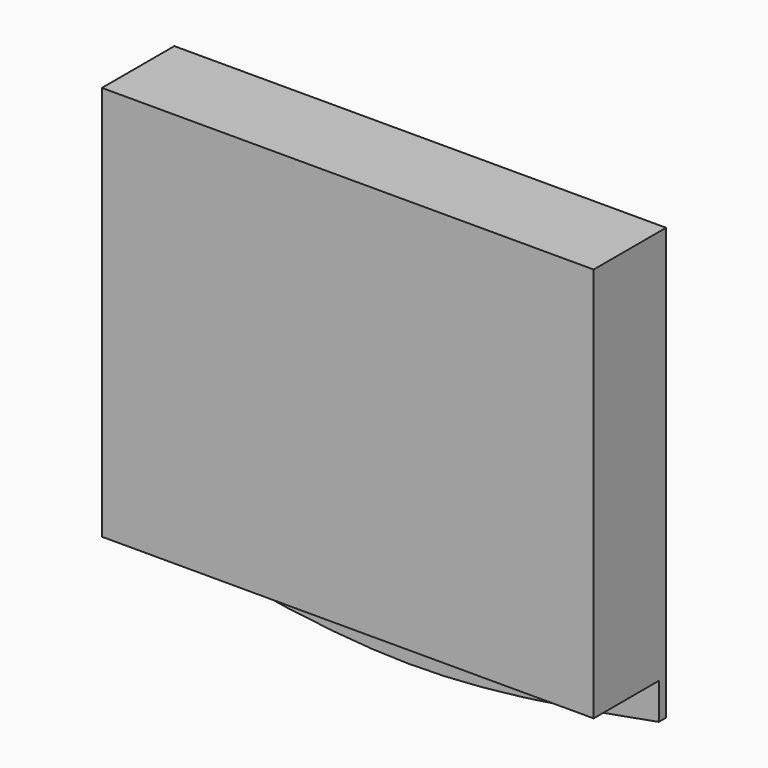
from build123d import *

# Parameters (mm, degrees)
F0_W     = 163
F0_H     = 131
F1_DEPTH = 30
F0_R     = 2
F2_DEPTH = 3


with BuildPart() as f1:
    # F0 (on Front) → F1 (new body)
    with BuildSketch(Plane.XZ):
        Rectangle(F0_W, F0_H)
    extrude(amount=F1_DEPTH)

    # F0 (on Front) → F2 (join)
    with BuildSketch(Plane.XZ):
        with BuildLine():
            Line((81.5, -77.5), (81.5, -65.5))
            Line((81.5, -65.5), (-81.5, -65.5))
            Line((-81.5, -65.5), (-81.5, -77.5))
            add(Edge.make_bspline(
                [(-81.5, -77.5), (-54.333333, -82.5), (0, -92.5), (54.333333, -82.5), (81.5, -77.5)],
                knots=[0, 0, 0, 0, 82.111205, 164.22241, 164.22241, 164.22241, 164.22241], degree=3))
        make_face()
        with Locations((-68.5, -71.5)):
            Circle(F0_R, mode=Mode.SUBTRACT)
        with Locations((68.5, -71.5)):
            Circle(F0_R, mode=Mode.SUBTRACT)
    extrude(amount=F2_DEPTH)


solid = f1.part
